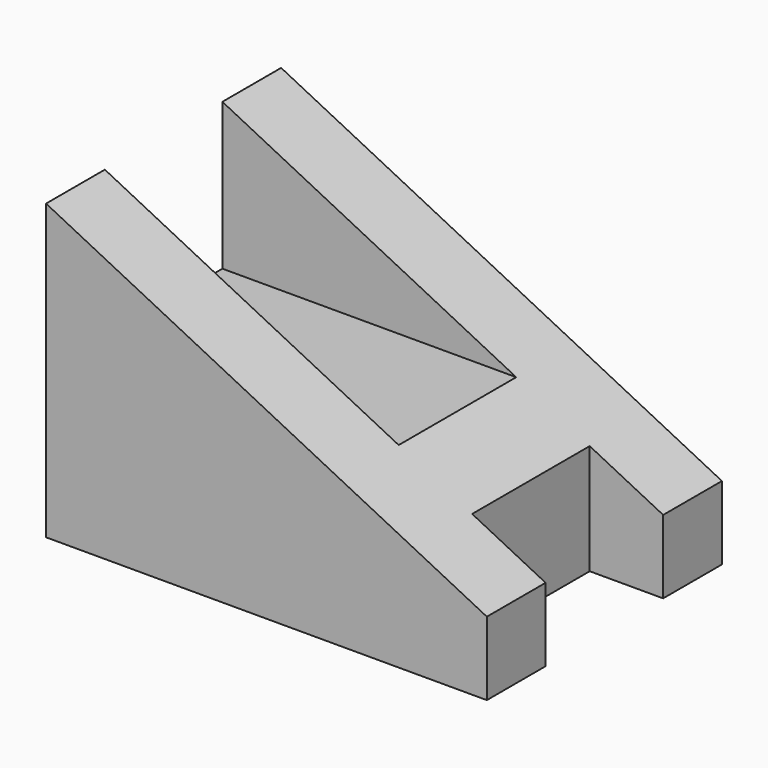
from build123d import *

# Parameters (mm, degrees)
F1_DEPTH = 20
F2_W     = 10
F2_H     = 10
F3_DEPTH = 30.001
F4_W     = 5
F4_H     = 10
F5_DEPTH = 20.001


with BuildPart() as f1:
    # F0 (on Front) → F1 (new body)
    with BuildSketch(Plane.XZ):
        Polygon((-30, 0), (0, 0), (0, 5), (-30, 20), align=None)
    extrude(amount=-F1_DEPTH)

    # F2 (on face) → F3 (cut, through all)
    with BuildSketch(Plane(origin=(-30, 0, 0), x_dir=(0, -1, 0), z_dir=(-1, 0, 0))):
        with Locations((-10, 15)):
            Rectangle(F2_W, F2_H)
    extrude(amount=-F3_DEPTH, mode=Mode.SUBTRACT)

    # F4 (on face) → F5 (cut, through all)
    with BuildSketch(Plane(origin=(0, 0, 0), x_dir=(1, 0, 0), z_dir=(0, 0, -1))):
        with Locations((-2.5, -10)):
            Rectangle(F4_W, F4_H)
    extrude(amount=-F5_DEPTH, mode=Mode.SUBTRACT)


solid = f1.part
